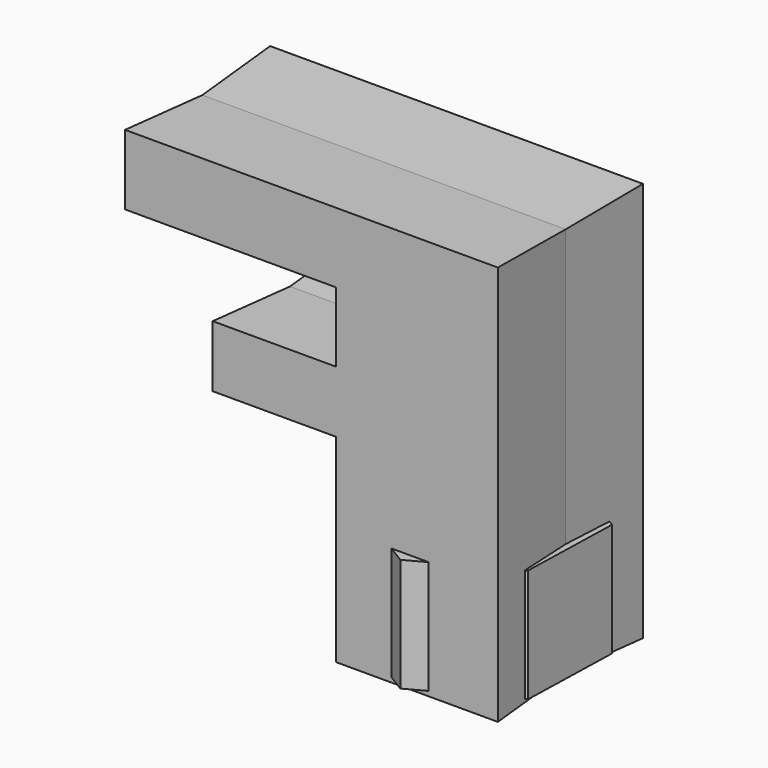
from build123d import *

# Parameters (mm, degrees)
F1_DEPTH      = 12.7
F2_W          = 13.8028934598
F2_H          = 5.8486834168
F2_W_2        = 23.6286818981
F2_H_2        = 6.7844763398
F3_DEPTH      = 10.16
F3_TAPER      = -3
F3_DEPTH_BACK = 10.16
F3_TAPER_BACK = -3


with BuildPart() as f1:
    # F0 (on Top) → F1 (new body)
    with BuildSketch(Plane.XY):
        Polygon((0.318628002, 11.3574438673), (-9.6765209102, 5.9546618778), (-9.9951489122, -5.4027819896), (-0.318628002, -11.3574438673), (9.6765209102, -5.9546618778), (9.9951489122, 5.4027819896), align=None)
    extrude(amount=F1_DEPTH)

    # F2 (on Front) → F3 (join, two sides)
    with BuildSketch(Plane.XZ) as f3_sk:
        Polygon((-7.954210043, 0), (9.1239484027, 0), (9.1239484027, 43.7481589615), (-7.954210043, 43.7481589615), (-7.954210043, 36.9636826217), (-7.954210043, 28.0736852437), (-7.954210043, 22.2250018269), align=None)
        with Locations((-14.8556567729, 25.1493435353)):
            Rectangle(F2_W, F2_H)
        with Locations((-19.768550992, 40.3559207916)):
            Rectangle(F2_W_2, F2_H_2)
    extrude(amount=F3_DEPTH, taper=F3_TAPER)
    extrude(f3_sk.sketch, amount=-F3_DEPTH_BACK, taper=F3_TAPER_BACK)


solid = f1.part
